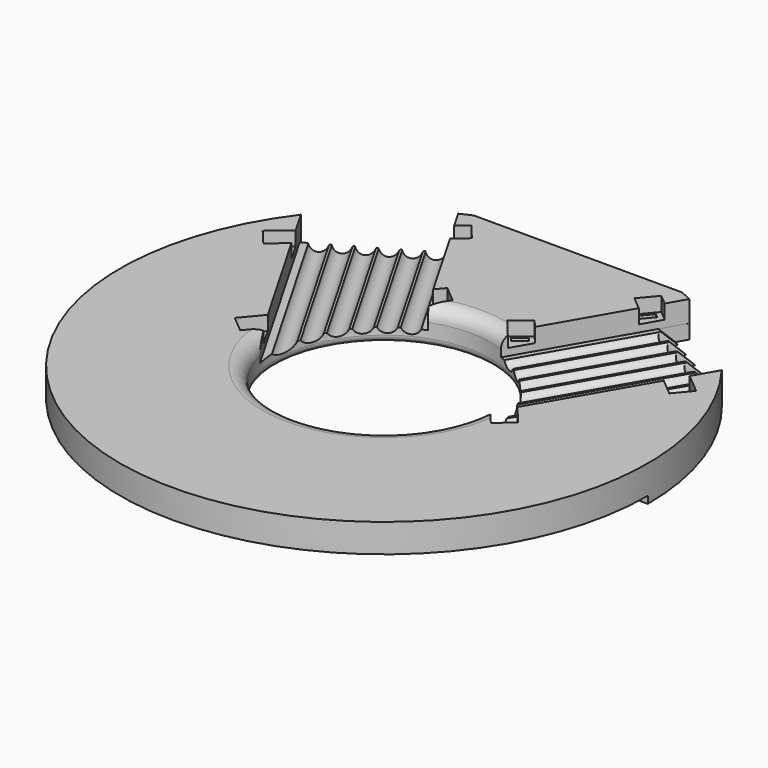
from build123d import *

# Parameters (mm, degrees)
BOX1270_W                    = 148
BOX1270_H                    = 74
BOX1270_DEPTH                = 55
TUBE054_R                    = 74
TUBE054_R_2                  = 63
TUBE054_DEPTH                = 4
BOX1267_W                    = 8
BOX1267_H                    = 6
BOX1267_DEPTH                = 20
BOX1267_PLACEMENT_ANGLE      = 50
BOX1268_W                    = 8
BOX1268_H                    = 6
BOX1268_DEPTH                = 20
BOX1268_PLACEMENT_ANGLE      = 40
BOX1269_W                    = 8
BOX1269_H                    = 6
BOX1269_DEPTH                = 20
BOX1269_PLACEMENT_ANGLE      = 50
BOX1266_W                    = 8
BOX1266_H                    = 6
BOX1266_DEPTH                = 20
BOX1266_PLACEMENT_ANGLE      = 40
CYLINDER2388_R               = 2.5
CYLINDER2388_DEPTH           = 200
CYLINDER2388_ROLL_ANGLE      = 90.00011
CYLINDER2388_PITCH_ANGLE     = -0.000411
CYLINDER2388_PLACEMENT_ANGLE = 150.000396
CYLINDER2384_R               = 2.5
CYLINDER2384_DEPTH           = 200
CYLINDER2384_ROLL_ANGLE      = 90.00011
CYLINDER2384_PITCH_ANGLE     = -0.000411
CYLINDER2384_PLACEMENT_ANGLE = 150.000396
CYLINDER2385_R               = 2.5
CYLINDER2385_DEPTH           = 200
CYLINDER2385_ROLL_ANGLE      = 90.00011
CYLINDER2385_PITCH_ANGLE     = -0.000411
CYLINDER2385_PLACEMENT_ANGLE = 150.000396
CYLINDER2383_R               = 2.5
CYLINDER2383_DEPTH           = 200
CYLINDER2383_ROLL_ANGLE      = 90.00011
CYLINDER2383_PITCH_ANGLE     = -0.000411
CYLINDER2383_PLACEMENT_ANGLE = 150.000396
CYLINDER2381_R               = 2.5
CYLINDER2381_DEPTH           = 200
CYLINDER2381_ROLL_ANGLE      = 90.00011
CYLINDER2381_PITCH_ANGLE     = -0.000411
CYLINDER2381_PLACEMENT_ANGLE = 150.000396
CYLINDER2387_R               = 2.5
CYLINDER2387_DEPTH           = 200
CYLINDER2387_ROLL_ANGLE      = 90
CYLINDER2387_PLACEMENT_ANGLE = 150
COMPOUND1159_ROLL_ANGLE      = -40.893395
COMPOUND1159_PITCH_ANGLE     = 20.704811
COMPOUND1159_PLACEMENT_ANGLE = -7.792346
BOX1234_W                    = 34
BOX1234_H                    = 100
BOX1234_DEPTH                = 40
BOX1234_ROLL_ANGLE           = -45.002105
BOX1234_PITCH_ANGLE          = -0.000585
BOX1234_PLACEMENT_ANGLE      = -30.001343
BOX1232_W                    = 34
BOX1232_H                    = 100
BOX1232_DEPTH                = 40
BOX1232_PLACEMENT_ANGLE      = 30
BOX1237_W                    = 1.5
BOX1237_H                    = 4
BOX1237_DEPTH                = 100
BOX1237_PLACEMENT_ANGLE      = 50
BOX1235_W                    = 1.5
BOX1235_H                    = 4
BOX1235_DEPTH                = 100
BOX1235_PLACEMENT_ANGLE      = 50
BOX1236_W                    = 1.5
BOX1236_H                    = 4
BOX1236_DEPTH                = 100
BOX1236_PLACEMENT_ANGLE      = 40
BOX1233_W                    = 1.5
BOX1233_H                    = 4
BOX1233_DEPTH                = 100
BOX1233_PLACEMENT_ANGLE      = 40
CYLINDER2377_R               = 2.5
CYLINDER2377_DEPTH           = 200
CYLINDER2377_ROLL_ANGLE      = 90.00011
CYLINDER2377_PITCH_ANGLE     = -0.000411
CYLINDER2377_PLACEMENT_ANGLE = 150.000396
CYLINDER2386_R               = 2.5
CYLINDER2386_DEPTH           = 200
CYLINDER2386_ROLL_ANGLE      = 90.00011
CYLINDER2386_PITCH_ANGLE     = -0.000411
CYLINDER2386_PLACEMENT_ANGLE = 150.000396
CYLINDER2380_R               = 2.5
CYLINDER2380_DEPTH           = 200
CYLINDER2380_ROLL_ANGLE      = 90.00011
CYLINDER2380_PITCH_ANGLE     = -0.000411
CYLINDER2380_PLACEMENT_ANGLE = 150.000396
CYLINDER2382_R               = 2.5
CYLINDER2382_DEPTH           = 200
CYLINDER2382_ROLL_ANGLE      = 90.00011
CYLINDER2382_PITCH_ANGLE     = -0.000411
CYLINDER2382_PLACEMENT_ANGLE = 150.000396
CYLINDER2378_R               = 2.5
CYLINDER2378_DEPTH           = 200
CYLINDER2378_ROLL_ANGLE      = 90.00011
CYLINDER2378_PITCH_ANGLE     = -0.000411
CYLINDER2378_PLACEMENT_ANGLE = 150.000396
CYLINDER2379_R               = 2.5
CYLINDER2379_DEPTH           = 200
CYLINDER2379_ROLL_ANGLE      = 90
CYLINDER2379_PLACEMENT_ANGLE = 150
BOX1263_W                    = 8
BOX1263_H                    = 6
BOX1263_DEPTH                = 20
BOX1263_PLACEMENT_ANGLE      = 50
BOX1264_W                    = 8
BOX1264_H                    = 6
BOX1264_DEPTH                = 20
BOX1264_PLACEMENT_ANGLE      = 40
BOX1265_W                    = 8
BOX1265_H                    = 6
BOX1265_DEPTH                = 20
BOX1265_PLACEMENT_ANGLE      = 50
BOX1262_W                    = 8
BOX1262_H                    = 6
BOX1262_DEPTH                = 20
BOX1262_PLACEMENT_ANGLE      = 40
BOX1198_W                    = 1.5
BOX1198_H                    = 4
BOX1198_DEPTH                = 100
BOX1198_PLACEMENT_ANGLE      = 50
BOX1197_W                    = 1.5
BOX1197_H                    = 4
BOX1197_DEPTH                = 100
BOX1197_PLACEMENT_ANGLE      = 50
BOX1199_W                    = 1.5
BOX1199_H                    = 4
BOX1199_DEPTH                = 100
BOX1199_PLACEMENT_ANGLE      = 40
BOX1196_W                    = 1.5
BOX1196_H                    = 4
BOX1196_DEPTH                = 100
BOX1196_PLACEMENT_ANGLE      = 40
BOX1177_W                    = 34
BOX1177_H                    = 100
BOX1177_DEPTH                = 40
BOX1177_ROLL_ANGLE           = -45.002105
BOX1177_PITCH_ANGLE          = -0.000585
BOX1177_PLACEMENT_ANGLE      = -30.001343
CYLINDER2337_R               = 2.5
CYLINDER2337_DEPTH           = 200
CYLINDER2337_ROLL_ANGLE      = 90.00011
CYLINDER2337_PITCH_ANGLE     = -0.000411
CYLINDER2337_PLACEMENT_ANGLE = 150.000396
CYLINDER2338_R               = 2.5
CYLINDER2338_DEPTH           = 200
CYLINDER2338_ROLL_ANGLE      = 90.00011
CYLINDER2338_PITCH_ANGLE     = -0.000411
CYLINDER2338_PLACEMENT_ANGLE = 150.000396
CYLINDER2340_R               = 2.5
CYLINDER2340_DEPTH           = 200
CYLINDER2340_ROLL_ANGLE      = 90.00011
CYLINDER2340_PITCH_ANGLE     = -0.000411
CYLINDER2340_PLACEMENT_ANGLE = 150.000396
CYLINDER2335_R               = 2.5
CYLINDER2335_DEPTH           = 200
CYLINDER2335_ROLL_ANGLE      = 90.00011
CYLINDER2335_PITCH_ANGLE     = -0.000411
CYLINDER2335_PLACEMENT_ANGLE = 150.000396
CYLINDER2339_R               = 2.5
CYLINDER2339_DEPTH           = 200
CYLINDER2339_ROLL_ANGLE      = 90.00011
CYLINDER2339_PITCH_ANGLE     = -0.000411
CYLINDER2339_PLACEMENT_ANGLE = 150.000396
CYLINDER2336_R               = 2.5
CYLINDER2336_DEPTH           = 200
CYLINDER2336_ROLL_ANGLE      = 90
CYLINDER2336_PLACEMENT_ANGLE = 150
COMPOUND1140_ROLL_ANGLE      = -40.893395
COMPOUND1140_PITCH_ANGLE     = 20.704811
COMPOUND1140_PLACEMENT_ANGLE = -7.792346
CYLINDER2320_R               = 2.5
CYLINDER2320_DEPTH           = 200
CYLINDER2320_ROLL_ANGLE      = 90.00011
CYLINDER2320_PITCH_ANGLE     = -0.000411
CYLINDER2320_PLACEMENT_ANGLE = 150.000396
CYLINDER2318_R               = 2.5
CYLINDER2318_DEPTH           = 200
CYLINDER2318_ROLL_ANGLE      = 90.00011
CYLINDER2318_PITCH_ANGLE     = -0.000411
CYLINDER2318_PLACEMENT_ANGLE = 150.000396
CYLINDER2321_R               = 2.5
CYLINDER2321_DEPTH           = 200
CYLINDER2321_ROLL_ANGLE      = 90.00011
CYLINDER2321_PITCH_ANGLE     = -0.000411
CYLINDER2321_PLACEMENT_ANGLE = 150.000396
CYLINDER2317_R               = 2.5
CYLINDER2317_DEPTH           = 200
CYLINDER2317_ROLL_ANGLE      = 90.00011
CYLINDER2317_PITCH_ANGLE     = -0.000411
CYLINDER2317_PLACEMENT_ANGLE = 150.000396
CYLINDER2322_R               = 2.5
CYLINDER2322_DEPTH           = 200
CYLINDER2322_ROLL_ANGLE      = 90.00011
CYLINDER2322_PITCH_ANGLE     = -0.000411
CYLINDER2322_PLACEMENT_ANGLE = 150.000396
CYLINDER2319_R               = 2.5
CYLINDER2319_DEPTH           = 200
CYLINDER2319_ROLL_ANGLE      = 90
CYLINDER2319_PLACEMENT_ANGLE = 150
BOX1149_W                    = 34
BOX1149_H                    = 100
BOX1149_DEPTH                = 40
BOX1149_PLACEMENT_ANGLE      = 30
CYLINDER2307_R               = 30
CYLINDER2307_DEPTH           = 160
BOX1153_W                    = 148
BOX1153_H                    = 20
BOX1153_DEPTH                = 34
CYLINDER2306_R               = 74
CYLINDER2306_DEPTH           = 10
FILLET013_R                  = 4
FILLET009_R                  = 4
FILLET010_R                  = 2


with BuildPart() as krychle1270:
    # Box1270 → Box1270 (new body)
    with BuildSketch(Plane(origin=(-74, 0, 29), x_dir=(1, 0, 0), z_dir=(0, 0, 1))):
        with Locations((74, 37)):
            Rectangle(BOX1270_W, BOX1270_H)
    extrude(amount=BOX1270_DEPTH)


with BuildPart() as cut798:
    # Tube054 → Tube054 (new body)
    with BuildSketch(Plane.XY.offset(68)):
        Circle(TUBE054_R)
        Circle(TUBE054_R_2, mode=Mode.SUBTRACT)
    extrude(amount=TUBE054_DEPTH)

    # Cut798: cut Krychle1270
    add(krychle1270.part, mode=Mode.SUBTRACT)


with BuildPart() as cut798_1:
    # Cut798 placement: moved
    add(cut798.part.moved(Location((0, 0, 4))))


with BuildPart() as krychle1267:
    # Box1267 → Box1267 (new body)
    with BuildSketch(Plane.XY):
        with Locations((4, 3)):
            Rectangle(BOX1267_W, BOX1267_H)
    extrude(amount=BOX1267_DEPTH)


with BuildPart() as krychle1267_1:
    # Box1267 placement: moved
    add(krychle1267.part.moved(Location((7.64, 33.65, 80))).rotate(Axis((7.64, 33.65, 80), (0, 0, -1)), BOX1267_PLACEMENT_ANGLE))


with BuildPart() as krychle1268:
    # Box1268 → Box1268 (new body)
    with BuildSketch(Plane.XY):
        with Locations((4, 3)):
            Rectangle(BOX1268_W, BOX1268_H)
    extrude(amount=BOX1268_DEPTH)


with BuildPart() as krychle1268_1:
    # Box1268 placement: moved
    add(krychle1268.part.moved(Location((50.79, 34, 80))).rotate(Axis((50.79, 34, 80), (0, 0, -1)), BOX1268_PLACEMENT_ANGLE))


with BuildPart() as krychle1269:
    # Box1269 → Box1269 (new body)
    with BuildSketch(Plane.XY):
        with Locations((4, 3)):
            Rectangle(BOX1269_W, BOX1269_H)
    extrude(amount=BOX1269_DEPTH)


with BuildPart() as krychle1269_1:
    # Box1269 placement: moved
    add(krychle1269.part.moved(Location((30, -0.35, 80))).rotate(Axis((30, -0.35, 80), (0, 0, -1)), BOX1269_PLACEMENT_ANGLE))


with BuildPart() as compound1161:
    # Box1266 → Box1266 (new body)
    with BuildSketch(Plane.XY):
        with Locations((4, 3)):
            Rectangle(BOX1266_W, BOX1266_H)
    extrude(amount=BOX1266_DEPTH)


with BuildPart() as compound1161_1:
    # Box1266 placement: moved
    add(compound1161.part.moved(Location((22.79, 59.31, 80))).rotate(Axis((22.79, 59.31, 80), (0, 0, -1)), BOX1266_PLACEMENT_ANGLE))

    # Compound1161: union Krychle1267, Krychle1268, Krychle1269
    add(krychle1267_1.part)
    add(krychle1268_1.part)
    add(krychle1269_1.part)


with BuildPart() as mirror038:
    # mirror038: instance of Compound1161
    add(compound1161_1.part.mirror(Plane(origin=(0, 0, 0), x_dir=(0, -1, 0), z_dir=(1, 0, 0))))


with BuildPart() as obj1:
    # Cylinder2388 → Cylinder2388 (new body)
    with BuildSketch(Plane.XY):
        Circle(CYLINDER2388_R)
    extrude(amount=CYLINDER2388_DEPTH)


with BuildPart() as obj1_1:
    # Cylinder2388 roll: moved
    add(obj1.part.rotate(Axis((0, 0, 0), (1, 0, 0)), CYLINDER2388_ROLL_ANGLE))


with BuildPart() as obj1_2:
    # Cylinder2388 pitch: moved
    add(obj1_1.part.rotate(Axis((0, 0, 0), (0, 1, 0)), CYLINDER2388_PITCH_ANGLE))


with BuildPart() as obj1_3:
    # Cylinder2388 placement: moved
    add(obj1_2.part.moved(Location((6, 0, 81))).rotate(Axis((6, 0, 81), (0, 0, 1)), CYLINDER2388_PLACEMENT_ANGLE))


with BuildPart() as obj2:
    # Cylinder2384 → Cylinder2384 (new body)
    with BuildSketch(Plane.XY):
        Circle(CYLINDER2384_R)
    extrude(amount=CYLINDER2384_DEPTH)


with BuildPart() as obj2_1:
    # Cylinder2384 roll: moved
    add(obj2.part.rotate(Axis((0, 0, 0), (1, 0, 0)), CYLINDER2384_ROLL_ANGLE))


with BuildPart() as obj2_2:
    # Cylinder2384 pitch: moved
    add(obj2_1.part.rotate(Axis((0, 0, 0), (0, 1, 0)), CYLINDER2384_PITCH_ANGLE))


with BuildPart() as obj2_3:
    # Cylinder2384 placement: moved
    add(obj2_2.part.moved(Location((12, 0, 81))).rotate(Axis((12, 0, 81), (0, 0, 1)), CYLINDER2384_PLACEMENT_ANGLE))


with BuildPart() as obj3:
    # Cylinder2385 → Cylinder2385 (new body)
    with BuildSketch(Plane.XY):
        Circle(CYLINDER2385_R)
    extrude(amount=CYLINDER2385_DEPTH)


with BuildPart() as obj3_1:
    # Cylinder2385 roll: moved
    add(obj3.part.rotate(Axis((0, 0, 0), (1, 0, 0)), CYLINDER2385_ROLL_ANGLE))


with BuildPart() as obj3_2:
    # Cylinder2385 pitch: moved
    add(obj3_1.part.rotate(Axis((0, 0, 0), (0, 1, 0)), CYLINDER2385_PITCH_ANGLE))


with BuildPart() as obj3_3:
    # Cylinder2385 placement: moved
    add(obj3_2.part.moved(Location((18, 0, 81))).rotate(Axis((18, 0, 81), (0, 0, 1)), CYLINDER2385_PLACEMENT_ANGLE))


with BuildPart() as obj4:
    # Cylinder2383 → Cylinder2383 (new body)
    with BuildSketch(Plane.XY):
        Circle(CYLINDER2383_R)
    extrude(amount=CYLINDER2383_DEPTH)


with BuildPart() as obj4_1:
    # Cylinder2383 roll: moved
    add(obj4.part.rotate(Axis((0, 0, 0), (1, 0, 0)), CYLINDER2383_ROLL_ANGLE))


with BuildPart() as obj4_2:
    # Cylinder2383 pitch: moved
    add(obj4_1.part.rotate(Axis((0, 0, 0), (0, 1, 0)), CYLINDER2383_PITCH_ANGLE))


with BuildPart() as obj4_3:
    # Cylinder2383 placement: moved
    add(obj4_2.part.moved(Location((24, 0, 81))).rotate(Axis((24, 0, 81), (0, 0, 1)), CYLINDER2383_PLACEMENT_ANGLE))


with BuildPart() as obj5:
    # Cylinder2381 → Cylinder2381 (new body)
    with BuildSketch(Plane.XY):
        Circle(CYLINDER2381_R)
    extrude(amount=CYLINDER2381_DEPTH)


with BuildPart() as obj5_1:
    # Cylinder2381 roll: moved
    add(obj5.part.rotate(Axis((0, 0, 0), (1, 0, 0)), CYLINDER2381_ROLL_ANGLE))


with BuildPart() as obj5_2:
    # Cylinder2381 pitch: moved
    add(obj5_1.part.rotate(Axis((0, 0, 0), (0, 1, 0)), CYLINDER2381_PITCH_ANGLE))


with BuildPart() as obj5_3:
    # Cylinder2381 placement: moved
    add(obj5_2.part.moved(Location((30, 0, 81))).rotate(Axis((30, 0, 81), (0, 0, 1)), CYLINDER2381_PLACEMENT_ANGLE))


with BuildPart() as compound1159:
    # Cylinder2387 → Cylinder2387 (new body)
    with BuildSketch(Plane.XY):
        Circle(CYLINDER2387_R)
    extrude(amount=CYLINDER2387_DEPTH)


with BuildPart() as compound1159_1:
    # Cylinder2387 roll: moved
    add(compound1159.part.rotate(Axis((0, 0, 0), (1, 0, 0)), CYLINDER2387_ROLL_ANGLE))


with BuildPart() as compound1159_2:
    # Cylinder2387 placement: moved
    add(compound1159_1.part.moved(Location((0, 0, 81))).rotate(Axis((0, 0, 81), (0, 0, 1)), CYLINDER2387_PLACEMENT_ANGLE))

    # Compound1159: union obj1, obj2, obj3, obj4, obj5
    add(obj1_3.part)
    add(obj2_3.part)
    add(obj3_3.part)
    add(obj4_3.part)
    add(obj5_3.part)


with BuildPart() as compound1159_3:
    # Compound1159 roll: moved
    add(compound1159_2.part.rotate(Axis((0, 0, 0), (1, 0, 0)), COMPOUND1159_ROLL_ANGLE))


with BuildPart() as compound1159_4:
    # Compound1159 pitch: moved
    add(compound1159_3.part.rotate(Axis((0, 0, 0), (0, 1, 0)), COMPOUND1159_PITCH_ANGLE))


with BuildPart() as compound1159_5:
    # Compound1159 placement: moved
    add(compound1159_4.part.moved(Location((-6.019122, -7.569019, 40.564524))).rotate(Axis((-6.019122, -7.569019, 40.564524), (0, 0, 1)), COMPOUND1159_PLACEMENT_ANGLE))


with BuildPart() as mirror037:
    # mirror037: instance of Compound1159
    add(compound1159_5.part.mirror(Plane(origin=(0, 0, 0), x_dir=(0, -1, 0), z_dir=(1, 0, 0))))


with BuildPart() as krychle1234:
    # Box1234 → Box1234 (new body)
    with BuildSketch(Plane.XY):
        with Locations((17, 50)):
            Rectangle(BOX1234_W, BOX1234_H)
    extrude(amount=BOX1234_DEPTH)


with BuildPart() as krychle1234_1:
    # Box1234 roll: moved
    add(krychle1234.part.rotate(Axis((0, 0, 0), (1, 0, 0)), BOX1234_ROLL_ANGLE))


with BuildPart() as krychle1234_2:
    # Box1234 pitch: moved
    add(krychle1234_1.part.rotate(Axis((0, 0, 0), (0, 1, 0)), BOX1234_PITCH_ANGLE))


with BuildPart() as krychle1234_3:
    # Box1234 placement: moved
    add(krychle1234_2.part.moved(Location((23.08, 50.36, 89.4))).rotate(Axis((23.08, 50.36, 89.4), (0, 0, 1)), BOX1234_PLACEMENT_ANGLE))


with BuildPart() as mirror036:
    # mirror036: instance of Krychle1234
    add(krychle1234_3.part.mirror(Plane(origin=(0, 0, 0), x_dir=(0, -1, 0), z_dir=(1, 0, 0))))


with BuildPart() as krychle1232:
    # Box1232 → Box1232 (new body)
    with BuildSketch(Plane.XY):
        with Locations((17, 50)):
            Rectangle(BOX1232_W, BOX1232_H)
    extrude(amount=BOX1232_DEPTH)


with BuildPart() as krychle1232_1:
    # Box1232 placement: moved
    add(krychle1232.part.moved(Location((-6, 0, 78))).rotate(Axis((-6, 0, 78), (0, 0, -1)), BOX1232_PLACEMENT_ANGLE))


with BuildPart() as mirror035:
    # mirror035: instance of Krychle1232
    add(krychle1232_1.part.mirror(Plane(origin=(0, 0, 0), x_dir=(0, -1, 0), z_dir=(1, 0, 0))))


with BuildPart() as krychle1237:
    # Box1237 → Box1237 (new body)
    with BuildSketch(Plane.XY):
        with Locations((0.75, 2)):
            Rectangle(BOX1237_W, BOX1237_H)
    extrude(amount=BOX1237_DEPTH)


with BuildPart() as krychle1237_1:
    # Box1237 placement: moved
    add(krychle1237.part.moved(Location((8.635321, 33.646005, 0))).rotate(Axis((8.635321, 33.646005, 0), (0, 0, -1)), BOX1237_PLACEMENT_ANGLE))


with BuildPart() as krychle1235:
    # Box1235 → Box1235 (new body)
    with BuildSketch(Plane.XY):
        with Locations((0.75, 2)):
            Rectangle(BOX1235_W, BOX1235_H)
    extrude(amount=BOX1235_DEPTH)


with BuildPart() as krychle1235_1:
    # Box1235 placement: moved
    add(krychle1235.part.moved(Location((33.635339, -2.353998, 0))).rotate(Axis((33.635339, -2.353998, 0), (0, 0, -1)), BOX1235_PLACEMENT_ANGLE))


with BuildPart() as krychle1236:
    # Box1236 → Box1236 (new body)
    with BuildSketch(Plane.XY):
        with Locations((0.75, 2)):
            Rectangle(BOX1236_W, BOX1236_H)
    extrude(amount=BOX1236_DEPTH)


with BuildPart() as krychle1236_1:
    # Box1236 placement: moved
    add(krychle1236.part.moved(Location((53.789402, 33.30705, 0))).rotate(Axis((53.789402, 33.30705, 0), (0, 0, -1)), BOX1236_PLACEMENT_ANGLE))


with BuildPart() as compound1162:
    # Box1233 → Box1233 (new body)
    with BuildSketch(Plane.XY):
        with Locations((0.75, 2)):
            Rectangle(BOX1233_W, BOX1233_H)
    extrude(amount=BOX1233_DEPTH)


with BuildPart() as compound1162_1:
    # Box1233 placement: moved
    add(compound1162.part.moved(Location((23.789402, 59.30705, 0))).rotate(Axis((23.789402, 59.30705, 0), (0, 0, -1)), BOX1233_PLACEMENT_ANGLE))

    # Compound1162: union Krychle1237, Krychle1235, Krychle1236
    add(krychle1237_1.part)
    add(krychle1235_1.part)
    add(krychle1236_1.part)


with BuildPart() as mirror034:
    # mirror034: instance of Compound1162
    add(compound1162_1.part.mirror(Plane(origin=(0, 0, 0), x_dir=(0, -1, 0), z_dir=(1, 0, 0))))


with BuildPart() as obj6:
    # Cylinder2377 → Cylinder2377 (new body)
    with BuildSketch(Plane.XY):
        Circle(CYLINDER2377_R)
    extrude(amount=CYLINDER2377_DEPTH)


with BuildPart() as obj6_1:
    # Cylinder2377 roll: moved
    add(obj6.part.rotate(Axis((0, 0, 0), (1, 0, 0)), CYLINDER2377_ROLL_ANGLE))


with BuildPart() as obj6_2:
    # Cylinder2377 pitch: moved
    add(obj6_1.part.rotate(Axis((0, 0, 0), (0, 1, 0)), CYLINDER2377_PITCH_ANGLE))


with BuildPart() as obj6_3:
    # Cylinder2377 placement: moved
    add(obj6_2.part.moved(Location((6, 0, 81))).rotate(Axis((6, 0, 81), (0, 0, 1)), CYLINDER2377_PLACEMENT_ANGLE))


with BuildPart() as obj7:
    # Cylinder2386 → Cylinder2386 (new body)
    with BuildSketch(Plane.XY):
        Circle(CYLINDER2386_R)
    extrude(amount=CYLINDER2386_DEPTH)


with BuildPart() as obj7_1:
    # Cylinder2386 roll: moved
    add(obj7.part.rotate(Axis((0, 0, 0), (1, 0, 0)), CYLINDER2386_ROLL_ANGLE))


with BuildPart() as obj7_2:
    # Cylinder2386 pitch: moved
    add(obj7_1.part.rotate(Axis((0, 0, 0), (0, 1, 0)), CYLINDER2386_PITCH_ANGLE))


with BuildPart() as obj7_3:
    # Cylinder2386 placement: moved
    add(obj7_2.part.moved(Location((12, 0, 81))).rotate(Axis((12, 0, 81), (0, 0, 1)), CYLINDER2386_PLACEMENT_ANGLE))


with BuildPart() as obj8:
    # Cylinder2380 → Cylinder2380 (new body)
    with BuildSketch(Plane.XY):
        Circle(CYLINDER2380_R)
    extrude(amount=CYLINDER2380_DEPTH)


with BuildPart() as obj8_1:
    # Cylinder2380 roll: moved
    add(obj8.part.rotate(Axis((0, 0, 0), (1, 0, 0)), CYLINDER2380_ROLL_ANGLE))


with BuildPart() as obj8_2:
    # Cylinder2380 pitch: moved
    add(obj8_1.part.rotate(Axis((0, 0, 0), (0, 1, 0)), CYLINDER2380_PITCH_ANGLE))


with BuildPart() as obj8_3:
    # Cylinder2380 placement: moved
    add(obj8_2.part.moved(Location((18, 0, 81))).rotate(Axis((18, 0, 81), (0, 0, 1)), CYLINDER2380_PLACEMENT_ANGLE))


with BuildPart() as obj9:
    # Cylinder2382 → Cylinder2382 (new body)
    with BuildSketch(Plane.XY):
        Circle(CYLINDER2382_R)
    extrude(amount=CYLINDER2382_DEPTH)


with BuildPart() as obj9_1:
    # Cylinder2382 roll: moved
    add(obj9.part.rotate(Axis((0, 0, 0), (1, 0, 0)), CYLINDER2382_ROLL_ANGLE))


with BuildPart() as obj9_2:
    # Cylinder2382 pitch: moved
    add(obj9_1.part.rotate(Axis((0, 0, 0), (0, 1, 0)), CYLINDER2382_PITCH_ANGLE))


with BuildPart() as obj9_3:
    # Cylinder2382 placement: moved
    add(obj9_2.part.moved(Location((24, 0, 81))).rotate(Axis((24, 0, 81), (0, 0, 1)), CYLINDER2382_PLACEMENT_ANGLE))


with BuildPart() as obj10:
    # Cylinder2378 → Cylinder2378 (new body)
    with BuildSketch(Plane.XY):
        Circle(CYLINDER2378_R)
    extrude(amount=CYLINDER2378_DEPTH)


with BuildPart() as obj10_1:
    # Cylinder2378 roll: moved
    add(obj10.part.rotate(Axis((0, 0, 0), (1, 0, 0)), CYLINDER2378_ROLL_ANGLE))


with BuildPart() as obj10_2:
    # Cylinder2378 pitch: moved
    add(obj10_1.part.rotate(Axis((0, 0, 0), (0, 1, 0)), CYLINDER2378_PITCH_ANGLE))


with BuildPart() as obj10_3:
    # Cylinder2378 placement: moved
    add(obj10_2.part.moved(Location((30, 0, 81))).rotate(Axis((30, 0, 81), (0, 0, 1)), CYLINDER2378_PLACEMENT_ANGLE))


with BuildPart() as compound1160:
    # Cylinder2379 → Cylinder2379 (new body)
    with BuildSketch(Plane.XY):
        Circle(CYLINDER2379_R)
    extrude(amount=CYLINDER2379_DEPTH)


with BuildPart() as compound1160_1:
    # Cylinder2379 roll: moved
    add(compound1160.part.rotate(Axis((0, 0, 0), (1, 0, 0)), CYLINDER2379_ROLL_ANGLE))


with BuildPart() as compound1160_2:
    # Cylinder2379 placement: moved
    add(compound1160_1.part.moved(Location((0, 0, 81))).rotate(Axis((0, 0, 81), (0, 0, 1)), CYLINDER2379_PLACEMENT_ANGLE))

    # Compound1160: union obj6, obj7, obj8, obj9, obj10
    add(obj6_3.part)
    add(obj7_3.part)
    add(obj8_3.part)
    add(obj9_3.part)
    add(obj10_3.part)


with BuildPart() as compound1160_3:
    # Compound1160 placement: moved
    add(compound1160_2.part.moved(Location((-8, -11, -2))))


with BuildPart() as mirror033:
    # mirror033: instance of Compound1160
    add(compound1160_3.part.mirror(Plane(origin=(0, 0, 0), x_dir=(0, -1, 0), z_dir=(1, 0, 0))))


with BuildPart() as krychle1263:
    # Box1263 → Box1263 (new body)
    with BuildSketch(Plane.XY):
        with Locations((4, 3)):
            Rectangle(BOX1263_W, BOX1263_H)
    extrude(amount=BOX1263_DEPTH)


with BuildPart() as krychle1263_1:
    # Box1263 placement: moved
    add(krychle1263.part.moved(Location((7.64, 33.65, 80))).rotate(Axis((7.64, 33.65, 80), (0, 0, -1)), BOX1263_PLACEMENT_ANGLE))


with BuildPart() as krychle1264:
    # Box1264 → Box1264 (new body)
    with BuildSketch(Plane.XY):
        with Locations((4, 3)):
            Rectangle(BOX1264_W, BOX1264_H)
    extrude(amount=BOX1264_DEPTH)


with BuildPart() as krychle1264_1:
    # Box1264 placement: moved
    add(krychle1264.part.moved(Location((50.79, 34, 80))).rotate(Axis((50.79, 34, 80), (0, 0, -1)), BOX1264_PLACEMENT_ANGLE))


with BuildPart() as krychle1265:
    # Box1265 → Box1265 (new body)
    with BuildSketch(Plane.XY):
        with Locations((4, 3)):
            Rectangle(BOX1265_W, BOX1265_H)
    extrude(amount=BOX1265_DEPTH)


with BuildPart() as krychle1265_1:
    # Box1265 placement: moved
    add(krychle1265.part.moved(Location((30, -0.35, 80))).rotate(Axis((30, -0.35, 80), (0, 0, -1)), BOX1265_PLACEMENT_ANGLE))


with BuildPart() as compound1150:
    # Box1262 → Box1262 (new body)
    with BuildSketch(Plane.XY):
        with Locations((4, 3)):
            Rectangle(BOX1262_W, BOX1262_H)
    extrude(amount=BOX1262_DEPTH)


with BuildPart() as compound1150_1:
    # Box1262 placement: moved
    add(compound1150.part.moved(Location((22.79, 59.31, 80))).rotate(Axis((22.79, 59.31, 80), (0, 0, -1)), BOX1262_PLACEMENT_ANGLE))

    # Compound1150: union Krychle1263, Krychle1264, Krychle1265
    add(krychle1263_1.part)
    add(krychle1264_1.part)
    add(krychle1265_1.part)


with BuildPart() as krychle1198:
    # Box1198 → Box1198 (new body)
    with BuildSketch(Plane.XY):
        with Locations((0.75, 2)):
            Rectangle(BOX1198_W, BOX1198_H)
    extrude(amount=BOX1198_DEPTH)


with BuildPart() as krychle1198_1:
    # Box1198 placement: moved
    add(krychle1198.part.moved(Location((8.635321, 33.646005, 0))).rotate(Axis((8.635321, 33.646005, 0), (0, 0, -1)), BOX1198_PLACEMENT_ANGLE))


with BuildPart() as krychle1197:
    # Box1197 → Box1197 (new body)
    with BuildSketch(Plane.XY):
        with Locations((0.75, 2)):
            Rectangle(BOX1197_W, BOX1197_H)
    extrude(amount=BOX1197_DEPTH)


with BuildPart() as krychle1197_1:
    # Box1197 placement: moved
    add(krychle1197.part.moved(Location((33.635339, -2.353998, 0))).rotate(Axis((33.635339, -2.353998, 0), (0, 0, -1)), BOX1197_PLACEMENT_ANGLE))


with BuildPart() as krychle1199:
    # Box1199 → Box1199 (new body)
    with BuildSketch(Plane.XY):
        with Locations((0.75, 2)):
            Rectangle(BOX1199_W, BOX1199_H)
    extrude(amount=BOX1199_DEPTH)


with BuildPart() as krychle1199_1:
    # Box1199 placement: moved
    add(krychle1199.part.moved(Location((53.789402, 33.30705, 0))).rotate(Axis((53.789402, 33.30705, 0), (0, 0, -1)), BOX1199_PLACEMENT_ANGLE))


with BuildPart() as compound1147:
    # Box1196 → Box1196 (new body)
    with BuildSketch(Plane.XY):
        with Locations((0.75, 2)):
            Rectangle(BOX1196_W, BOX1196_H)
    extrude(amount=BOX1196_DEPTH)


with BuildPart() as compound1147_1:
    # Box1196 placement: moved
    add(compound1147.part.moved(Location((23.789402, 59.30705, 0))).rotate(Axis((23.789402, 59.30705, 0), (0, 0, -1)), BOX1196_PLACEMENT_ANGLE))

    # Compound1147: union Krychle1198, Krychle1197, Krychle1199
    add(krychle1198_1.part)
    add(krychle1197_1.part)
    add(krychle1199_1.part)


with BuildPart() as krychle1177:
    # Box1177 → Box1177 (new body)
    with BuildSketch(Plane.XY):
        with Locations((17, 50)):
            Rectangle(BOX1177_W, BOX1177_H)
    extrude(amount=BOX1177_DEPTH)


with BuildPart() as krychle1177_1:
    # Box1177 roll: moved
    add(krychle1177.part.rotate(Axis((0, 0, 0), (1, 0, 0)), BOX1177_ROLL_ANGLE))


with BuildPart() as krychle1177_2:
    # Box1177 pitch: moved
    add(krychle1177_1.part.rotate(Axis((0, 0, 0), (0, 1, 0)), BOX1177_PITCH_ANGLE))


with BuildPart() as krychle1177_3:
    # Box1177 placement: moved
    add(krychle1177_2.part.moved(Location((23.08, 50.36, 89.4))).rotate(Axis((23.08, 50.36, 89.4), (0, 0, 1)), BOX1177_PLACEMENT_ANGLE))


with BuildPart() as obj11:
    # Cylinder2337 → Cylinder2337 (new body)
    with BuildSketch(Plane.XY):
        Circle(CYLINDER2337_R)
    extrude(amount=CYLINDER2337_DEPTH)


with BuildPart() as obj11_1:
    # Cylinder2337 roll: moved
    add(obj11.part.rotate(Axis((0, 0, 0), (1, 0, 0)), CYLINDER2337_ROLL_ANGLE))


with BuildPart() as obj11_2:
    # Cylinder2337 pitch: moved
    add(obj11_1.part.rotate(Axis((0, 0, 0), (0, 1, 0)), CYLINDER2337_PITCH_ANGLE))


with BuildPart() as obj11_3:
    # Cylinder2337 placement: moved
    add(obj11_2.part.moved(Location((6, 0, 81))).rotate(Axis((6, 0, 81), (0, 0, 1)), CYLINDER2337_PLACEMENT_ANGLE))


with BuildPart() as obj12:
    # Cylinder2338 → Cylinder2338 (new body)
    with BuildSketch(Plane.XY):
        Circle(CYLINDER2338_R)
    extrude(amount=CYLINDER2338_DEPTH)


with BuildPart() as obj12_1:
    # Cylinder2338 roll: moved
    add(obj12.part.rotate(Axis((0, 0, 0), (1, 0, 0)), CYLINDER2338_ROLL_ANGLE))


with BuildPart() as obj12_2:
    # Cylinder2338 pitch: moved
    add(obj12_1.part.rotate(Axis((0, 0, 0), (0, 1, 0)), CYLINDER2338_PITCH_ANGLE))


with BuildPart() as obj12_3:
    # Cylinder2338 placement: moved
    add(obj12_2.part.moved(Location((12, 0, 81))).rotate(Axis((12, 0, 81), (0, 0, 1)), CYLINDER2338_PLACEMENT_ANGLE))


with BuildPart() as obj13:
    # Cylinder2340 → Cylinder2340 (new body)
    with BuildSketch(Plane.XY):
        Circle(CYLINDER2340_R)
    extrude(amount=CYLINDER2340_DEPTH)


with BuildPart() as obj13_1:
    # Cylinder2340 roll: moved
    add(obj13.part.rotate(Axis((0, 0, 0), (1, 0, 0)), CYLINDER2340_ROLL_ANGLE))


with BuildPart() as obj13_2:
    # Cylinder2340 pitch: moved
    add(obj13_1.part.rotate(Axis((0, 0, 0), (0, 1, 0)), CYLINDER2340_PITCH_ANGLE))


with BuildPart() as obj13_3:
    # Cylinder2340 placement: moved
    add(obj13_2.part.moved(Location((18, 0, 81))).rotate(Axis((18, 0, 81), (0, 0, 1)), CYLINDER2340_PLACEMENT_ANGLE))


with BuildPart() as obj14:
    # Cylinder2335 → Cylinder2335 (new body)
    with BuildSketch(Plane.XY):
        Circle(CYLINDER2335_R)
    extrude(amount=CYLINDER2335_DEPTH)


with BuildPart() as obj14_1:
    # Cylinder2335 roll: moved
    add(obj14.part.rotate(Axis((0, 0, 0), (1, 0, 0)), CYLINDER2335_ROLL_ANGLE))


with BuildPart() as obj14_2:
    # Cylinder2335 pitch: moved
    add(obj14_1.part.rotate(Axis((0, 0, 0), (0, 1, 0)), CYLINDER2335_PITCH_ANGLE))


with BuildPart() as obj14_3:
    # Cylinder2335 placement: moved
    add(obj14_2.part.moved(Location((24, 0, 81))).rotate(Axis((24, 0, 81), (0, 0, 1)), CYLINDER2335_PLACEMENT_ANGLE))


with BuildPart() as obj15:
    # Cylinder2339 → Cylinder2339 (new body)
    with BuildSketch(Plane.XY):
        Circle(CYLINDER2339_R)
    extrude(amount=CYLINDER2339_DEPTH)


with BuildPart() as obj15_1:
    # Cylinder2339 roll: moved
    add(obj15.part.rotate(Axis((0, 0, 0), (1, 0, 0)), CYLINDER2339_ROLL_ANGLE))


with BuildPart() as obj15_2:
    # Cylinder2339 pitch: moved
    add(obj15_1.part.rotate(Axis((0, 0, 0), (0, 1, 0)), CYLINDER2339_PITCH_ANGLE))


with BuildPart() as obj15_3:
    # Cylinder2339 placement: moved
    add(obj15_2.part.moved(Location((30, 0, 81))).rotate(Axis((30, 0, 81), (0, 0, 1)), CYLINDER2339_PLACEMENT_ANGLE))


with BuildPart() as compound1140:
    # Cylinder2336 → Cylinder2336 (new body)
    with BuildSketch(Plane.XY):
        Circle(CYLINDER2336_R)
    extrude(amount=CYLINDER2336_DEPTH)


with BuildPart() as compound1140_1:
    # Cylinder2336 roll: moved
    add(compound1140.part.rotate(Axis((0, 0, 0), (1, 0, 0)), CYLINDER2336_ROLL_ANGLE))


with BuildPart() as compound1140_2:
    # Cylinder2336 placement: moved
    add(compound1140_1.part.moved(Location((0, 0, 81))).rotate(Axis((0, 0, 81), (0, 0, 1)), CYLINDER2336_PLACEMENT_ANGLE))

    # Compound1140: union obj11, obj12, obj13, obj14, obj15
    add(obj11_3.part)
    add(obj12_3.part)
    add(obj13_3.part)
    add(obj14_3.part)
    add(obj15_3.part)


with BuildPart() as compound1140_3:
    # Compound1140 roll: moved
    add(compound1140_2.part.rotate(Axis((0, 0, 0), (1, 0, 0)), COMPOUND1140_ROLL_ANGLE))


with BuildPart() as compound1140_4:
    # Compound1140 pitch: moved
    add(compound1140_3.part.rotate(Axis((0, 0, 0), (0, 1, 0)), COMPOUND1140_PITCH_ANGLE))


with BuildPart() as compound1140_5:
    # Compound1140 placement: moved
    add(compound1140_4.part.moved(Location((-6.019122, -7.569019, 40.564524))).rotate(Axis((-6.019122, -7.569019, 40.564524), (0, 0, 1)), COMPOUND1140_PLACEMENT_ANGLE))


with BuildPart() as obj16:
    # Cylinder2320 → Cylinder2320 (new body)
    with BuildSketch(Plane.XY):
        Circle(CYLINDER2320_R)
    extrude(amount=CYLINDER2320_DEPTH)


with BuildPart() as obj16_1:
    # Cylinder2320 roll: moved
    add(obj16.part.rotate(Axis((0, 0, 0), (1, 0, 0)), CYLINDER2320_ROLL_ANGLE))


with BuildPart() as obj16_2:
    # Cylinder2320 pitch: moved
    add(obj16_1.part.rotate(Axis((0, 0, 0), (0, 1, 0)), CYLINDER2320_PITCH_ANGLE))


with BuildPart() as obj16_3:
    # Cylinder2320 placement: moved
    add(obj16_2.part.moved(Location((6, 0, 81))).rotate(Axis((6, 0, 81), (0, 0, 1)), CYLINDER2320_PLACEMENT_ANGLE))


with BuildPart() as obj17:
    # Cylinder2318 → Cylinder2318 (new body)
    with BuildSketch(Plane.XY):
        Circle(CYLINDER2318_R)
    extrude(amount=CYLINDER2318_DEPTH)


with BuildPart() as obj17_1:
    # Cylinder2318 roll: moved
    add(obj17.part.rotate(Axis((0, 0, 0), (1, 0, 0)), CYLINDER2318_ROLL_ANGLE))


with BuildPart() as obj17_2:
    # Cylinder2318 pitch: moved
    add(obj17_1.part.rotate(Axis((0, 0, 0), (0, 1, 0)), CYLINDER2318_PITCH_ANGLE))


with BuildPart() as obj17_3:
    # Cylinder2318 placement: moved
    add(obj17_2.part.moved(Location((12, 0, 81))).rotate(Axis((12, 0, 81), (0, 0, 1)), CYLINDER2318_PLACEMENT_ANGLE))


with BuildPart() as obj18:
    # Cylinder2321 → Cylinder2321 (new body)
    with BuildSketch(Plane.XY):
        Circle(CYLINDER2321_R)
    extrude(amount=CYLINDER2321_DEPTH)


with BuildPart() as obj18_1:
    # Cylinder2321 roll: moved
    add(obj18.part.rotate(Axis((0, 0, 0), (1, 0, 0)), CYLINDER2321_ROLL_ANGLE))


with BuildPart() as obj18_2:
    # Cylinder2321 pitch: moved
    add(obj18_1.part.rotate(Axis((0, 0, 0), (0, 1, 0)), CYLINDER2321_PITCH_ANGLE))


with BuildPart() as obj18_3:
    # Cylinder2321 placement: moved
    add(obj18_2.part.moved(Location((18, 0, 81))).rotate(Axis((18, 0, 81), (0, 0, 1)), CYLINDER2321_PLACEMENT_ANGLE))


with BuildPart() as obj19:
    # Cylinder2317 → Cylinder2317 (new body)
    with BuildSketch(Plane.XY):
        Circle(CYLINDER2317_R)
    extrude(amount=CYLINDER2317_DEPTH)


with BuildPart() as obj19_1:
    # Cylinder2317 roll: moved
    add(obj19.part.rotate(Axis((0, 0, 0), (1, 0, 0)), CYLINDER2317_ROLL_ANGLE))


with BuildPart() as obj19_2:
    # Cylinder2317 pitch: moved
    add(obj19_1.part.rotate(Axis((0, 0, 0), (0, 1, 0)), CYLINDER2317_PITCH_ANGLE))


with BuildPart() as obj19_3:
    # Cylinder2317 placement: moved
    add(obj19_2.part.moved(Location((24, 0, 81))).rotate(Axis((24, 0, 81), (0, 0, 1)), CYLINDER2317_PLACEMENT_ANGLE))


with BuildPart() as obj20:
    # Cylinder2322 → Cylinder2322 (new body)
    with BuildSketch(Plane.XY):
        Circle(CYLINDER2322_R)
    extrude(amount=CYLINDER2322_DEPTH)


with BuildPart() as obj20_1:
    # Cylinder2322 roll: moved
    add(obj20.part.rotate(Axis((0, 0, 0), (1, 0, 0)), CYLINDER2322_ROLL_ANGLE))


with BuildPart() as obj20_2:
    # Cylinder2322 pitch: moved
    add(obj20_1.part.rotate(Axis((0, 0, 0), (0, 1, 0)), CYLINDER2322_PITCH_ANGLE))


with BuildPart() as obj20_3:
    # Cylinder2322 placement: moved
    add(obj20_2.part.moved(Location((30, 0, 81))).rotate(Axis((30, 0, 81), (0, 0, 1)), CYLINDER2322_PLACEMENT_ANGLE))


with BuildPart() as compound1137:
    # Cylinder2319 → Cylinder2319 (new body)
    with BuildSketch(Plane.XY):
        Circle(CYLINDER2319_R)
    extrude(amount=CYLINDER2319_DEPTH)


with BuildPart() as compound1137_1:
    # Cylinder2319 roll: moved
    add(compound1137.part.rotate(Axis((0, 0, 0), (1, 0, 0)), CYLINDER2319_ROLL_ANGLE))


with BuildPart() as compound1137_2:
    # Cylinder2319 placement: moved
    add(compound1137_1.part.moved(Location((0, 0, 81))).rotate(Axis((0, 0, 81), (0, 0, 1)), CYLINDER2319_PLACEMENT_ANGLE))

    # Compound1137: union obj16, obj17, obj18, obj19, obj20
    add(obj16_3.part)
    add(obj17_3.part)
    add(obj18_3.part)
    add(obj19_3.part)
    add(obj20_3.part)


with BuildPart() as compound1137_3:
    # Compound1137 placement: moved
    add(compound1137_2.part.moved(Location((-8, -11, -2))))


with BuildPart() as krychle1149:
    # Box1149 → Box1149 (new body)
    with BuildSketch(Plane.XY):
        with Locations((17, 50)):
            Rectangle(BOX1149_W, BOX1149_H)
    extrude(amount=BOX1149_DEPTH)


with BuildPart() as krychle1149_1:
    # Box1149 placement: moved
    add(krychle1149.part.moved(Location((-6, 0, 78))).rotate(Axis((-6, 0, 78), (0, 0, -1)), BOX1149_PLACEMENT_ANGLE))


with BuildPart() as obj21:
    # Cylinder2307 → Cylinder2307 (new body)
    with BuildSketch(Plane.XY.offset(-60)):
        Circle(CYLINDER2307_R)
    extrude(amount=CYLINDER2307_DEPTH)


with BuildPart() as krychle1153:
    # Box1153 → Box1153 (new body)
    with BuildSketch(Plane(origin=(-74, 68, 38), x_dir=(1, 0, 0), z_dir=(0, 0, 1))):
        with Locations((74, 10)):
            Rectangle(BOX1153_W, BOX1153_H)
    extrude(amount=BOX1153_DEPTH)


with BuildPart() as fillet010:
    # Cylinder2306 → Cylinder2306 (new body)
    with BuildSketch(Plane.XY.offset(61)):
        Circle(CYLINDER2306_R)
    extrude(amount=CYLINDER2306_DEPTH)

    # Cut754: cut Krychle1153
    add(krychle1153.part, mode=Mode.SUBTRACT)


with BuildPart() as fillet010_1:
    # Cut754 placement: moved
    add(fillet010.part.moved(Location((0, 0, 13))))

    # Cut755: cut obj21
    add(obj21.part, mode=Mode.SUBTRACT)

    # Cut762: cut Krychle1149
    add(krychle1149_1.part, mode=Mode.SUBTRACT)

    # Cut765: cut Compound1137
    add(compound1137_3.part, mode=Mode.SUBTRACT)

    # Cut768: cut Compound1140
    add(compound1140_5.part, mode=Mode.SUBTRACT)

    # Cut771: cut Krychle1177
    add(krychle1177_3.part, mode=Mode.SUBTRACT)

    # Cut774: cut Compound1147
    add(compound1147_1.part, mode=Mode.SUBTRACT)

    # Cut779: cut Compound1150
    add(compound1150_1.part, mode=Mode.SUBTRACT)

    # Cut782: cut mirror033
    add(mirror033.part, mode=Mode.SUBTRACT)

    # Cut785: cut mirror034
    add(mirror034.part, mode=Mode.SUBTRACT)

    # Cut788: cut mirror035
    add(mirror035.part, mode=Mode.SUBTRACT)

    # Cut791: cut mirror036
    add(mirror036.part, mode=Mode.SUBTRACT)

    # Cut794: cut mirror037
    add(mirror037.part, mode=Mode.SUBTRACT)

    # Cut797: cut mirror038
    add(mirror038.part, mode=Mode.SUBTRACT)

    # Cut799: cut Cut798
    add(cut798_1.part, mode=Mode.SUBTRACT)

    # Fillet013
    fillet013_edges = [fillet010_1.edges().sort_by_distance(p)[0] for p in [
        (0, -30, 84),
    ]]
    fillet(fillet013_edges, radius=FILLET013_R)

    # Fillet009
    fillet009_edges = [fillet010_1.edges().sort_by_distance(p)[0] for p in [
        (0, 30, 84),
    ]]
    fillet(fillet009_edges, radius=FILLET009_R)

    # Fillet010
    fillet010_edges = [fillet010_1.edges().sort_by_distance(p)[0] for p in [
        (-30, 0, 74),
    ]]
    fillet(fillet010_edges, radius=FILLET010_R)


solid = fillet010_1.part
